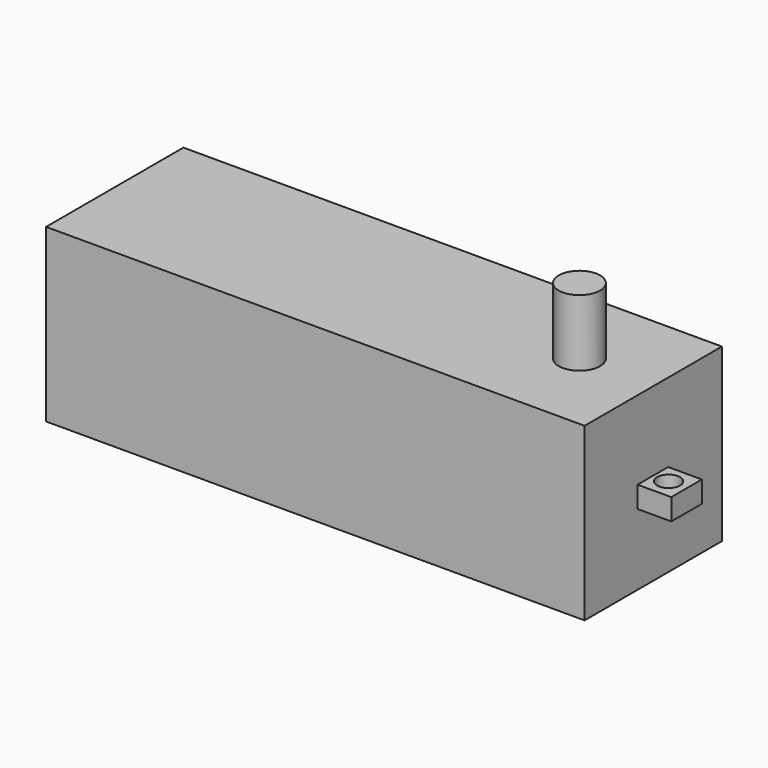
from build123d import *

# Parameters (mm, degrees)
BOX_W             = 70.4
BOX_H             = 22.44
BOX_DEPTH         = 22.4
CYLINDER_R        = 1.5
CYLINDER_DEPTH    = 10
BOX001_W          = 4.8
BOX001_H          = 5
BOX001_DEPTH      = 2.8
CYLINDER001_R     = 2.7
CYLINDER001_DEPTH = 8.7


with BuildPart() as base:
    # Box → Box (new body)
    with BuildSketch(Plane.XY):
        with Locations((35.2, 11.22)):
            Rectangle(BOX_W, BOX_H)
    extrude(amount=BOX_DEPTH)


with BuildPart() as cylinder:
    # Cylinder → Cylinder (new body)
    with BuildSketch(Plane(origin=(72.4, 11.22, 8.3), x_dir=(1, 0, 0), z_dir=(0, 0, 1))):
        Circle(CYLINDER_R)
    extrude(amount=CYLINDER_DEPTH)


with BuildPart() as fusion:
    # Box001 → Box001 (new body)
    with BuildSketch(Plane(origin=(70, 8.66, 9.3), x_dir=(1, 0, 0), z_dir=(0, 0, 1))):
        with Locations((2.4, 2.5)):
            Rectangle(BOX001_W, BOX001_H)
    extrude(amount=BOX001_DEPTH)

    # Cut: cut Cylinder
    add(cylinder.part, mode=Mode.SUBTRACT)

    # Fusion: union Base
    add(base.part)


with BuildPart() as fusion001:
    # Cylinder001 → Cylinder001 (new body)
    with BuildSketch(Plane(origin=(60.75, 11.22, 22.44), x_dir=(1, 0, 0), z_dir=(0, 0, 1))):
        Circle(CYLINDER001_R)
    extrude(amount=CYLINDER001_DEPTH)

    # Fusion001: union Fusion
    add(fusion.part)


solid = fusion001.part
